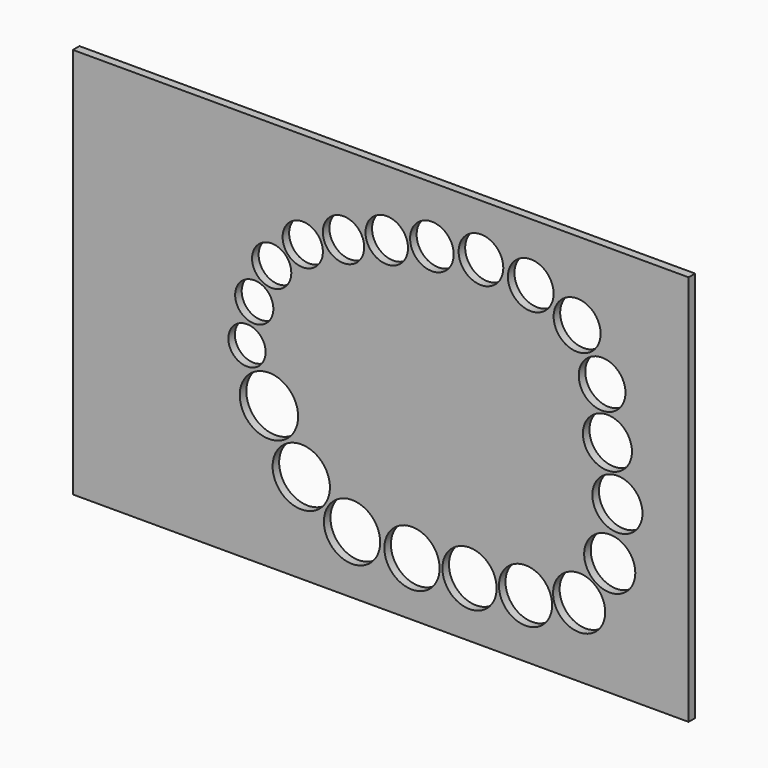
from build123d import *

# Parameters (mm, degrees)
F2_W     = 238.426886
F2_H     = 151.567214
F3_DEPTH = 3.175
F1_R     = 9.05
F1_R_2   = 9.5
F1_R_3   = 9.7
F1_R_4   = 9.9
F1_R_5   = 10.3
F1_R_6   = 10.5
F1_R_7   = 10.7
F1_R_8   = 10.9
F1_R_9   = 11.1
F1_R_10  = 11.3
F1_R_11  = 10.0965
F0_R     = 7.22
F0_R_2   = 7.4
F0_R_3   = 7.6
F0_R_4   = 7.8
F0_R_5   = 8
F0_R_6   = 8.225
F0_R_7   = 8.45
F0_R_8   = 8.65
F0_R_9   = 8.85
F0_R_10  = 9.1
F4_DEPTH = 25.4


with BuildPart() as f3:
    # F2 (on Front) → F3 (new body)
    with BuildSketch(Plane.XZ):
        with Locations((-13.917122, 0.145737)):
            Rectangle(F2_W, F2_H)
    extrude(amount=F3_DEPTH)

    # F1 (on Front) + F0 (on Front) → F4 (cut)
    with BuildSketch(Plane.XZ):
        with Locations((71.803339, 28.626817)):
            Circle(F1_R)
        with Locations((73.872736, 9.359167)):
            Circle(F1_R_2)
        with Locations((77.738432, -10.366699)):
            Circle(F1_R_3)
        with Locations((74.764473, -31.552281)):
            Circle(F1_R_4)
        with Locations((42.154603, -53.0548)):
            Circle(F1_R_5)
        with Locations((20.467432, -54.267971)):
            Circle(F1_R_6)
        with Locations((-1.80723, -54.662366)):
            Circle(F1_R_7)
        with Locations((-25.024595, -53.251462)):
            Circle(F1_R_8)
        with Locations((-44.686638, -40.878124)):
            Circle(F1_R_9)
        with Locations((-57.200898, -20.724166)):
            Circle(F1_R_10)
        with Locations((62.915616, -48.757901)):
            Circle(F1_R_11)
    with BuildSketch(Plane.XZ):
        with Locations((-65.699088, -2.867658)):
            Circle(F0_R)
        with Locations((-62.893169, 12.845844)):
            Circle(F0_R_2)
        with Locations((-56.141507, 27.393481)):
            Circle(F0_R_3)
        with Locations((-44.119534, 38.547034)):
            Circle(F0_R_4)
        with Locations((-28.320049, 45.309286)):
            Circle(F0_R_5)
        with Locations((-11.58786, 50.566368)):
            Circle(F0_R_6)
        with Locations((5.897778, 54.137864)):
            Circle(F0_R_7)
        with Locations((24.898611, 55.78438)):
            Circle(F0_R_8)
        with Locations((44.18264, 53.365339)):
            Circle(F0_R_9)
        with Locations((62.138096, 45.591767)):
            Circle(F0_R_10)
    extrude(amount=F4_DEPTH, mode=Mode.SUBTRACT)


solid = f3.part
